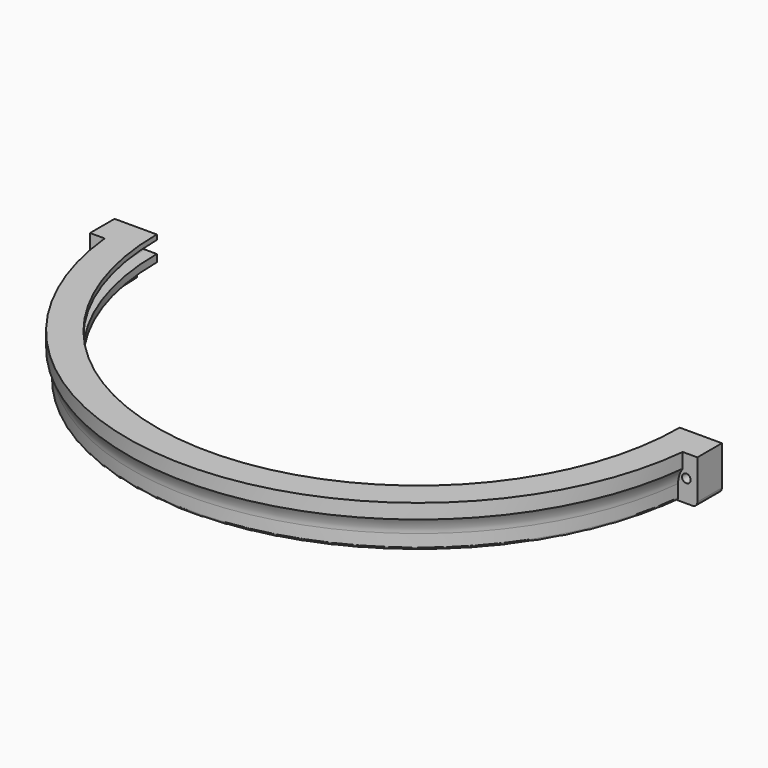
from build123d import *

# Parameters (mm, degrees)
F2_R      = 113.5
F3_DEPTH  = 5
F4_R      = 1
F5_W      = 8
F5_H      = 18
F5_R      = 2.5
F7_DEPTH  = 12.5
F6_W      = 8
F6_H      = 18
F6_R      = 1.75
F8_DEPTH  = 12.5
F9_W      = 250
F9_H      = 100
F10_DEPTH = 150
F11_R     = 2
F12_R     = 2


with BuildPart() as f1:
    # F0 (on Front) → F1 (revolve)
    with BuildSketch(Plane.XZ):
        with BuildLine():
            Line((-114.5, -3), (-106.5, -3))
            Line((-106.5, -3), (-106.5, 0))
            Line((-106.5, 0), (-106.5, 7))
            Line((-106.5, 7), (-106.888494173, 7))
            Line((-106.888494173, 7), (-118.388494173, 7))
            Line((-118.388494173, 7.0000000475), (-118.388494173, 1.0000000475))
            ThreePointArc((-118.388494173, 1.0000000475), (-116.9832708565, -1.8549081567), (-116.5, -5))
            Line((-116.5, -5), (-116.5, -11))
            Line((-116.5, -11), (-114.5, -11))
            Line((-114.5, -11), (-114.5, -3))
        make_face()
    revolve(axis=Axis((0, 0, -0.2650997043), (0, 0, 1)))

    # F2 (on Top) → F3 (cut)
    with BuildSketch(Plane.XY):
        Circle(F2_R)
    extrude(amount=F3_DEPTH, mode=Mode.SUBTRACT)

    # F4
    f4_edges = [f1.edges().sort_by_distance(p)[0] for p in [
        (116.5, 0, -11),
    ]]
    fillet(f4_edges, radius=F4_R)

    # F5 (on Front) → F7 (join, symmetric)
    with BuildSketch(Plane.XZ):
        with Locations((-119.7, -2)):
            Rectangle(F5_W, F5_H)
        with Locations((-119.2, -2)):
            Circle(F5_R, mode=Mode.SUBTRACT)
    extrude(amount=F7_DEPTH, both=True)

    # F6 (on Front) → F8 (join, symmetric)
    with BuildSketch(Plane.XZ):
        with Locations((119.7, -2)):
            Rectangle(F6_W, F6_H)
        with Locations((119.2, -2)):
            Circle(F6_R, mode=Mode.SUBTRACT)
    extrude(amount=F8_DEPTH, both=True)

    # F9 (on Front) → F10 (cut)
    with BuildSketch(Plane.XZ):
        with Locations((0.1239156971, -32.2915658355)):
            Rectangle(F9_W, F9_H)
    extrude(amount=-F10_DEPTH, mode=Mode.SUBTRACT)

    # F11
    f11_edges = [f1.edges().sort_by_distance(p)[0] for p in [
        (0, -113.5, 0),
    ]]
    fillet(f11_edges, radius=F11_R)

    # F12
    f12_edges = [f1.edges().sort_by_distance(p)[0] for p in [
        (123.7, -6.25, -11),
        (-123.7, -6.25, -11),
    ]]
    fillet(f12_edges, radius=F12_R)


solid = f1.part
